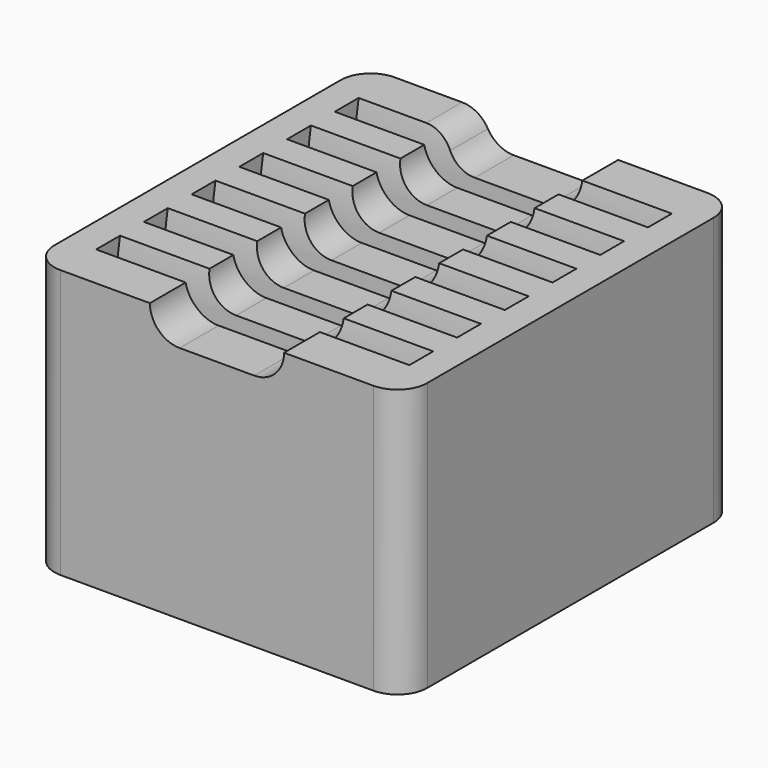
from build123d import *

# Parameters (mm, degrees)
BOX004_W         = 15
BOX004_H         = 26
BOX004_DEPTH     = 12
BOX005_W         = 9
BOX005_H         = 32
BOX005_DEPTH     = 8
FILLET004_R      = 2
PAD001_DEPTH     = 21
ARRAY001_Y_COUNT = 6
ARRAY001_Y_PITCH = 4
BOX003_W         = 25
BOX003_H         = 28
BOX003_DEPTH     = 18
FILLET003_R      = 2
FILLET005_R      = 2


with BuildPart() as cover_internal_cube:
    # Box004 → Box004 (new body)
    with BuildSketch(Plane(origin=(3, -3, -6), x_dir=(1, 0, 0), z_dir=(0, 0, 1))):
        with Locations((7.5, 13)):
            Rectangle(BOX004_W, BOX004_H)
    extrude(amount=BOX004_DEPTH)


with BuildPart() as middle_extract_cube_fillet001:
    # Box005 → Box005 (new body)
    with BuildSketch(Plane(origin=(6, -6, 10), x_dir=(1, 0, 0), z_dir=(0, 0, 1))):
        with Locations((4.5, 16)):
            Rectangle(BOX005_W, BOX005_H)
    extrude(amount=BOX005_DEPTH)

    # Fillet004
    fillet004_edges = [middle_extract_cube_fillet001.edges().sort_by_distance(p)[0] for p in [
        (6, 10, 10),
        (15, 10, 10),
    ]]
    fillet(fillet004_edges, radius=FILLET004_R)


with BuildPart() as extract_fusion001:
    # Sketch001 → Pad001 (new body)
    with BuildSketch(Plane.YZ):
        with BuildLine():
            Line((-0.7, 9), (-0.7, 2))
            Line((-0.7, 2), (0.7, 2))
            Line((0.7, 2), (0.7, 9))
            ThreePointArc((1, 12), (0.775187, 10.507481), (0.7, 9))
            Line((-1, 12), (1, 12))
            ThreePointArc((-0.7, 9), (-0.775187, 10.507481), (-1, 12))
        make_face()
    extrude(amount=PAD001_DEPTH)

    # Array001 Y: extract fusion001 ×6


with BuildPart() as extract_fusion001_1:
    add(extract_fusion001.part)
    with Locations(*[(0, i * ARRAY001_Y_PITCH, 0) for i in range(1, ARRAY001_Y_COUNT)]):
        add(extract_fusion001.part)

    # Fusion001: union cover internal cube, middle extract cube fillet001
    add(cover_internal_cube.part)
    add(middle_extract_cube_fillet001.part)


with BuildPart() as cover_glass_box_fillet:
    # Box003 → Box003 (new body)
    with BuildSketch(Plane(origin=(-2, -4, -6), x_dir=(1, 0, 0), z_dir=(0, 0, 1))):
        with Locations((12.5, 14)):
            Rectangle(BOX003_W, BOX003_H)
    extrude(amount=BOX003_DEPTH)

    # Fillet003
    fillet003_edges = [cover_glass_box_fillet.edges().sort_by_distance(p)[0] for p in [
        (-2, -4, 3),
        (-2, 24, 3),
        (23, -4, 3),
        (23, 24, 3),
    ]]
    fillet(fillet003_edges, radius=FILLET003_R)

    # Cut001: cut extract fusion001
    add(extract_fusion001_1.part, mode=Mode.SUBTRACT)

    # Fillet005
    fillet005_edges = [cover_glass_box_fillet.edges().sort_by_distance(p)[0] for p in [
        (6, 22.5, 12),
        (0, -4, 3),
        (3, -3, 0),
        (18, 14, 6),
    ]]
    fillet(fillet005_edges, radius=FILLET005_R)


solid = cover_glass_box_fillet.part
